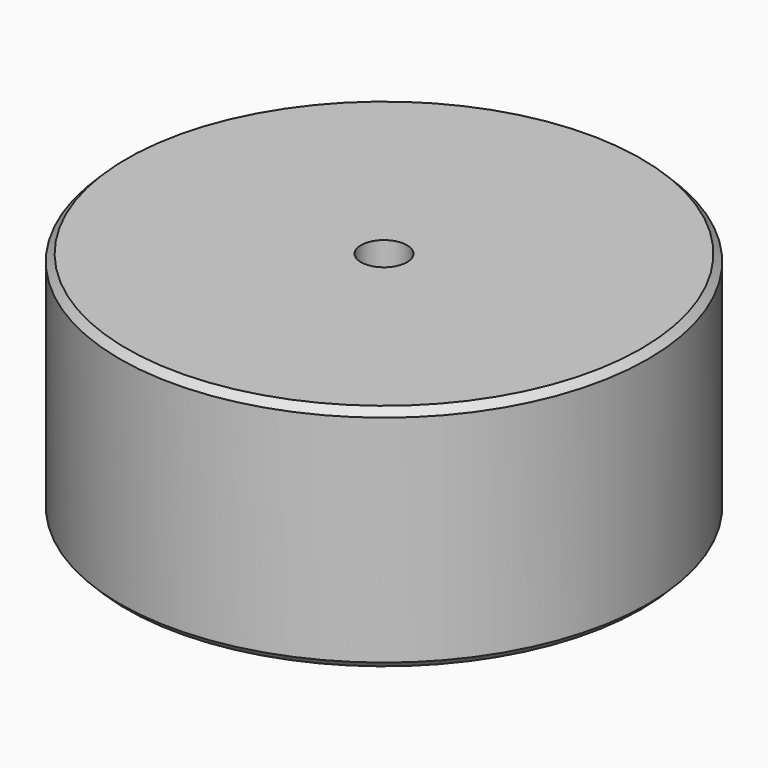
from build123d import *

# Parameters (mm, degrees)
F0_R     = 29.2481
F1_DEPTH = 25.4
F2_SIZE  = 0.762
F4_D     = 5.1054


with BuildPart() as f1:
    # F0 (on Top) → F1 (new body)
    with BuildSketch(Plane.XY):
        Circle(F0_R)
    extrude(amount=F1_DEPTH)

    # F2
    f2_edges = [f1.edges().sort_by_distance(p)[0] for p in [
        (-29.2481, 0, 25.4),
        (-29.2481, 0, 0),
    ]]
    chamfer(f2_edges, length=F2_SIZE)

    # F4 (through all)
    with Locations(Plane.XY.offset(25.4)):
        with Locations((0, 0)):
            Hole(F4_D / 2)


solid = f1.part
